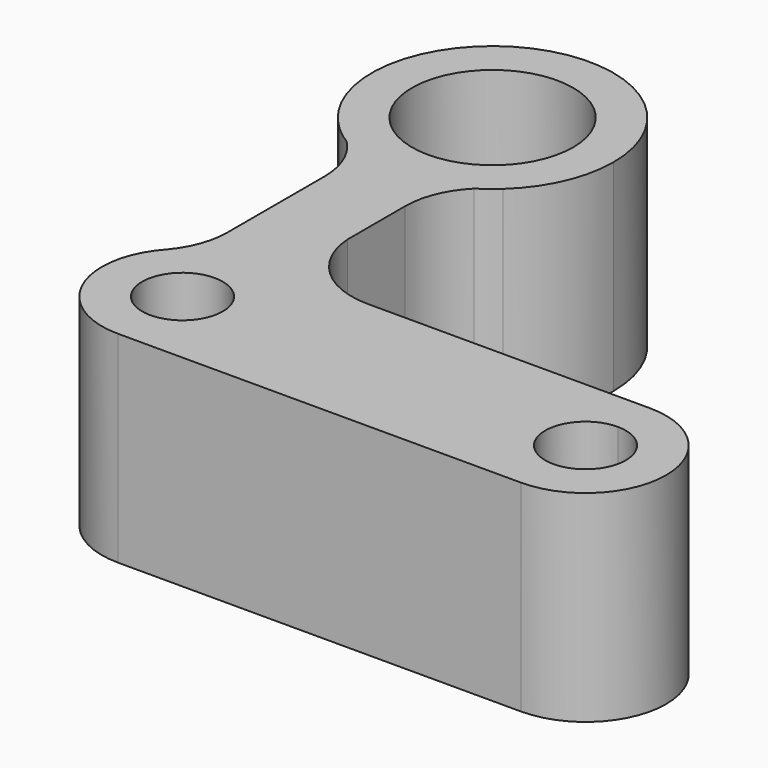
from build123d import *

# Parameters (mm, degrees)
F0_R     = 5
F1_DEPTH = 25


with BuildPart() as f1:
    # F0 (on Top) → F1 (new body)
    with BuildSketch(Plane.XY):
        with BuildLine():
            ThreePointArc((-5, -14.142136), (-2.53653, -14.783978), (0, -15))
            ThreePointArc((0, -15), (2.53653, -14.783978), (5, -14.142136))
            ThreePointArc((5, -14.142136), (6.49427, -13.52126), (7.912965, -12.743037))
            ThreePointArc((7.912965, -12.743037), (8.961055, -11.827459), (10.126106, -11.066254))
            ThreePointArc((10.126106, -11.066254), (13.727556, -6.046007), (15, 0))
            ThreePointArc((15, 0), (-6.046007, 13.727556), (-10.126106, -11.066254))
            ThreePointArc((-10.126106, -11.066254), (-8.961055, -11.827459), (-7.912965, -12.743037))
            ThreePointArc((-7.912965, -12.743037), (-6.49427, -13.52126), (-5, -14.142136))
        make_face()
        with BuildLine():
            ThreePointArc((0, -10), (-7.071068, 7.071068), (10, 0))
            ThreePointArc((10, 0), (7.071068, -7.071068), (0, -10))
        make_face(mode=Mode.SUBTRACT)
        with BuildLine():
            ThreePointArc((5, -14.142136), (2.53653, -14.783978), (0, -15))
            ThreePointArc((0, -15), (-2.53653, -14.783978), (-5, -14.142136))
            Line((-5, -14.142136), (-5, -19.798101))
            Line((-5, -19.798101), (-5, -34.964751))
            Line((-5, -34.964751), (-5, -39.425313))
            ThreePointArc((-5, -39.425313), (-2.58819, -38.426308), (0, -38.085567))
            Line((0, -38.085567), (5, -38.085567))
            Line((5, -38.085567), (14.865958, -38.085567))
            ThreePointArc((14.865958, -38.085567), (8.101285, -35.345789), (5, -28.739034))
            ThreePointArc((5, -28.739034), (4.978668, -28.086202), (5, -27.433369))
            Line((5, -27.433369), (5, -19.798101))
            Line((5, -19.798101), (5, -14.142136))
        make_face()
        with BuildLine():
            Line((-5, -19.798101), (-5, -14.142136))
            ThreePointArc((-5, -14.142136), (-6.49427, -13.52126), (-7.912965, -12.743037))
            ThreePointArc((-7.912965, -12.743037), (-5.756885, -15.981712), (-5, -19.798101))
        make_face()
        with BuildLine():
            ThreePointArc((7.912965, -12.743037), (6.49427, -13.52126), (5, -14.142136))
            Line((5, -14.142136), (5, -19.798101))
            ThreePointArc((5, -19.798101), (5.756885, -15.981712), (7.912965, -12.743037))
        make_face()
        with BuildLine():
            ThreePointArc((-10.126106, -11.066254), (-9.058417, -11.955964), (-7.912965, -12.743037))
            ThreePointArc((-7.912965, -12.743037), (-8.961055, -11.827459), (-10.126106, -11.066254))
        make_face()
        with BuildLine():
            ThreePointArc((10.126106, -11.066254), (8.961055, -11.827459), (7.912965, -12.743037))
            ThreePointArc((7.912965, -12.743037), (9.058417, -11.955964), (10.126106, -11.066254))
        make_face()
        with BuildLine():
            Line((-5, -39.425313), (-5, -34.964751))
            ThreePointArc((-5, -34.964751), (-5.631209, -38.359198), (-7.37918, -41.336663))
            ThreePointArc((-7.37918, -41.336663), (-6.262934, -40.289692), (-5, -39.425313))
        make_face()
        with BuildLine():
            Line((5, -28.739034), (5, -27.433369))
            ThreePointArc((5, -27.433369), (4.978668, -28.086202), (5, -28.739034))
        make_face()
        with BuildLine():
            ThreePointArc((0, -38.085567), (-2.58819, -38.426308), (-5, -39.425313))
            ThreePointArc((-5, -39.425313), (-6.262934, -40.289692), (-7.37918, -41.336663))
            ThreePointArc((-7.37918, -41.336663), (-9.151203, -52.117375), (0, -58.085567))
            ThreePointArc((0, -58.085567), (2.58819, -57.744825), (5, -56.745821))
            Line((5, -56.745821), (5, -58.085567))
            Line((5, -58.085567), (50, -58.085567))
            Line((50, -58.085567), (50, -53.085567))
            ThreePointArc((50, -53.085567), (45, -48.085567), (50, -43.085567))
            Line((50, -43.085567), (50, -38.085567))
            Line((50, -38.085567), (15.091377, -38.085567))
            ThreePointArc((15.091377, -38.085567), (14.978668, -38.086202), (14.865958, -38.085567))
            Line((14.865958, -38.085567), (5, -38.085567))
            Line((5, -38.085567), (5, -39.425313))
            ThreePointArc((5, -39.425313), (2.58819, -38.426308), (0, -38.085567))
        make_face()
        with Locations((0, -48.085567)):
            Circle(F0_R, mode=Mode.SUBTRACT)
        with BuildLine():
            ThreePointArc((5, -56.745821), (2.58819, -57.744825), (0, -58.085567))
            Line((0, -58.085567), (5, -58.085567))
            Line((5, -58.085567), (5, -56.745821))
        make_face()
        with BuildLine():
            Line((15.091377, -38.085567), (14.865958, -38.085567))
            ThreePointArc((14.865958, -38.085567), (14.978668, -38.086202), (15.091377, -38.085567))
        make_face()
        with BuildLine():
            Line((50, -53.085567), (50, -58.085567))
            ThreePointArc((50, -58.085567), (60, -48.085567), (50, -38.085567))
            Line((50, -38.085567), (50, -43.085567))
            ThreePointArc((50, -43.085567), (53.535534, -44.550033), (55, -48.085567))
            ThreePointArc((55, -48.085567), (53.535534, -51.621101), (50, -53.085567))
        make_face()
        with BuildLine():
            Line((5, -38.085567), (0, -38.085567))
            ThreePointArc((0, -38.085567), (2.58819, -38.426308), (5, -39.425313))
            Line((5, -39.425313), (5, -38.085567))
        make_face()
    extrude(amount=F1_DEPTH)


solid = f1.part
